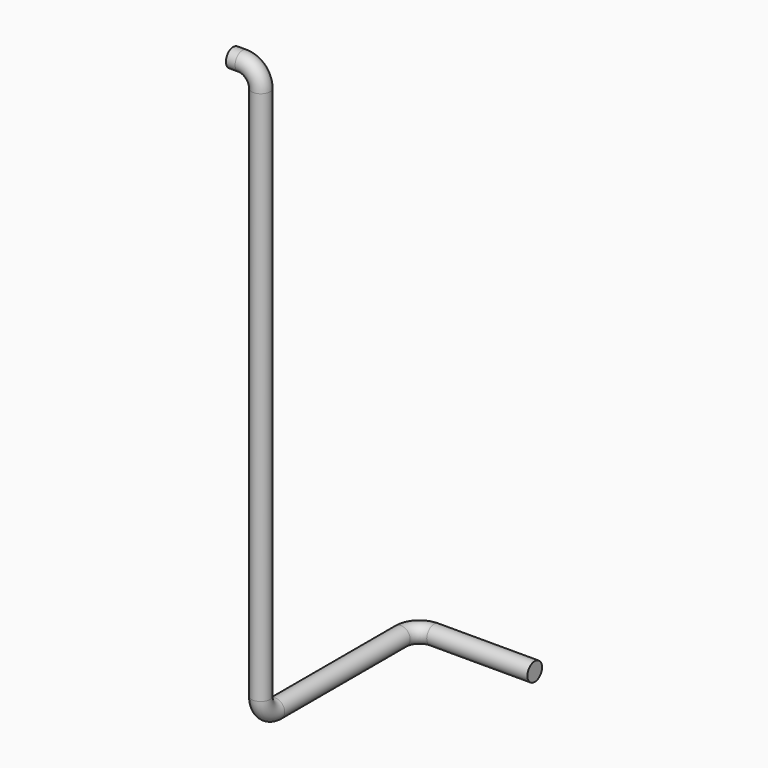
from build123d import *

# Parameters (mm, degrees)
F5_R = 10


with BuildPart() as f6:
    # F6: sweep along a path in F0, F4, F2
    with BuildLine(Plane.XZ) as f6_path:
        Line((0, 0), (10, 0))
        ThreePointArc((10, 0), (24.1421356237, -5.8578643763), (30, -20))
        Line((30, -20), (30, -602.5))
    with BuildLine(Plane.YZ.offset(30)) as f6_path_2:
        ThreePointArc((0, -602.5), (5.8578643763, -616.6421356237), (20, -622.5))
    with BuildLine(Plane.XY.offset(-622.5)) as f6_path_3:
        Line((30, 20), (30, 190.785))
        ThreePointArc((30, 190.785), (35.8578643763, 204.9271356237), (50, 210.785))
        Line((50, 210.785), (159.583, 210.785))
    # F5 (on Right) → F6 (sweep)
    with BuildSketch(Plane.YZ):
        Circle(F5_R)
    sweep(path=f6_path.line + f6_path_2.line + f6_path_3.line)


solid = f6.part
